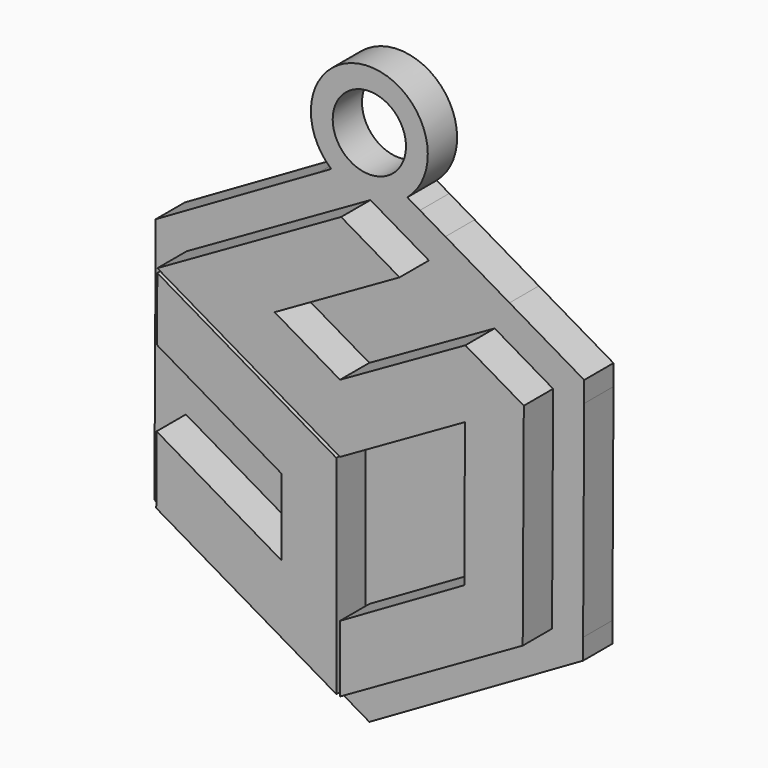
from build123d import *

# Parameters (mm, degrees)
F1_DEPTH  = 10
F3_DEPTH  = 5
F5_D      = 10
F8_DEPTH  = 5
F9_R      = 2.375
F10_DEPTH = 2
F12_R     = 2.625
F13_DEPTH = 2.5


with BuildPart() as f1:
    # F0 (on Front) → F1 (new body)
    with BuildSketch(Plane.XZ):
        Polygon((0, -28.7818589424), (24.9249300158, -14.5630078294), (25.0743997437, 14.3041186666), (17.0984221386, 18.964281172), (0, 9.2654265239), (-8.9251444928, 14.4801632973), (8.1254473329, 24.2069639906), (0.1494697278, 28.867126496), (-24.9249300158, 14.5630078294), (0, 0), (17.0505918257, 9.7268006933), (16.9489524108, -9.902845324), (0, -19.6890313633), align=None)
    extrude(amount=F1_DEPTH)

    # F2 (on Front) → F3 (join)
    with BuildSketch(Plane.XZ):
        with BuildLine():
            Line((29.310615077, 16.7375632336), (19.1225525955, 22.6901911283))
            Line((19.1225525955, 22.6901911283), (10.3774396625, 27.7997386882))
            Line((10.3774396625, 27.7997386882), (6.907399226, 29.8271957769))
            Line((6.907399226, 29.8271957769), (5.1838801546, 30.8342044912))
            ThreePointArc((5.1838801546, 30.8342044912), (0.0163801689, 44.8681793749), (-5.208730248, 30.8555519172))
            Line((-5.208730248, 30.8555519172), (-6.9280873675, 29.8628142188))
            Line((-6.9280873675, 29.8628142188), (-29.1626386522, 17.0248313374))
            Line((-29.1626386522, 17.0248313374), (-29.1626386522, 14.6632419108))
            Line((-29.1626386522, 14.6632419108), (-29.2115575603, 5.2155207649))
            Line((-29.2115575603, 5.2155207649), (-29.2640002175, -4.9127429423))
            Line((-29.2640002175, -4.9127429423), (-29.3106159128, -13.9156440154))
            Line((-29.3106159128, -13.9156440154), (-29.3106159128, -16.7375610477))
            Line((-29.3106159128, -16.7375610477), (0, -33.8630145094))
            Line((0, -33.8630145094), (29.1649410292, -17.0235179072))
            Line((29.1649410292, -17.0235179072), (29.1649410292, -14.2184218337))
            Line((29.1649410292, -14.2184218337), (29.310615077, 13.9156440197))
            Line((29.310615077, 13.9156440197), (29.310615077, 16.7375632336))
        make_face()
    extrude(amount=F3_DEPTH)

    # F5 (through all)
    with Locations(Plane(origin=(0, 0, 0), x_dir=(1, 0, 0), z_dir=(0, 1, 0))):
        with Locations((0, -36.8937887251)):
            Hole(F5_D / 2)

    # F12 (on offset) → F13 (cut)
    with BuildSketch(Plane.XZ.offset(2.5)):
        with Locations((-16.2890967273, 4.8024673149)):
            Circle(F12_R)
        with Locations((-4.099873935, -10.4962924677)):
            Circle(F12_R)
        with Locations((-17.1626120781, -14.4054982309)):
            Circle(F12_R)
    extrude(amount=F13_DEPTH, mode=Mode.SUBTRACT)


with BuildPart() as f8:
    # F7 (on offset) → F8 (new body)
    with BuildSketch(Plane.XZ.offset(5)):
        Polygon((-25.0743997437, -14.3041186666), (-0.5, -28.6623205007), (-0.5, -0.2869517712), (-24.9279194104, 13.9856652995), (-24.9727603287, 5.3255273507), (-8, -4.5912283392), (-8, -15.0148331786), (-25.0265694308, -5.0666381879), align=None)
    extrude(amount=F8_DEPTH)

    # F9 (on offset) → F10 (join)
    with BuildSketch(Plane.XZ.offset(5)):
        with Locations((-16.2890967273, 4.8024673149)):
            Circle(F9_R)
        with Locations((-17.1626120781, -14.4054982309)):
            Circle(F9_R)
        with Locations((-4.099873935, -10.4962924677)):
            Circle(F9_R)
    extrude(amount=-F10_DEPTH)


solid = Compound([f1.part, f8.part])
